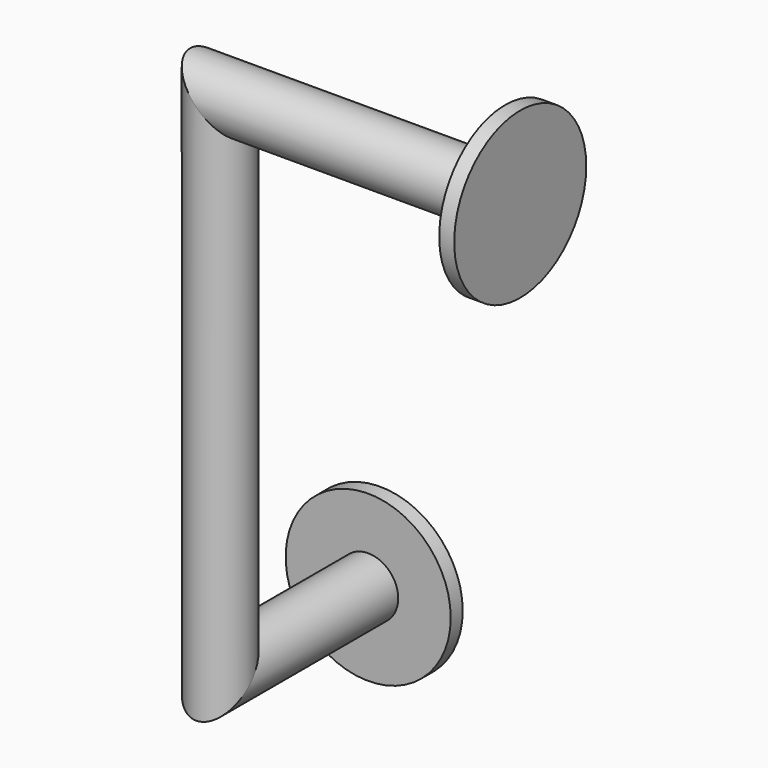
from build123d import *

# Parameters (mm, degrees)
F0_R     = 30
F0_R_2   = 82.5
F5_DEPTH = 15
F6_R     = 82.5
F6_R_2   = 30
F7_DEPTH = 15


with BuildPart() as f4:
    # F4: sweep along a path in F1, F3
    with BuildLine(Plane.YZ) as f4_path:
        Line((0, 0), (-200, 0))
        Line((-200, 0), (-200, 510))
    with BuildLine(Plane.XZ.offset(200)) as f4_path_2:
        Line((0, 510), (300, 510))
    # F0 (on Front) → F4 (sweep)
    with BuildSketch(Plane.XZ):
        Circle(F0_R)
    sweep(path=f4_path.line + f4_path_2.line, transition=Transition.RIGHT)

    # F0 (on Front) → F5 (join)
    with BuildSketch(Plane.XZ):
        Circle(F0_R_2)
        Circle(F0_R, mode=Mode.SUBTRACT)
    extrude(amount=F5_DEPTH)

    # F6 (on face) → F7 (join)
    with BuildSketch(Plane.YZ.offset(300)):
        with Locations((-200, 510)):
            Circle(F6_R)
        with Locations((-200, 510)):
            Circle(F6_R_2, mode=Mode.SUBTRACT)
    extrude(amount=-F7_DEPTH)


solid = f4.part
